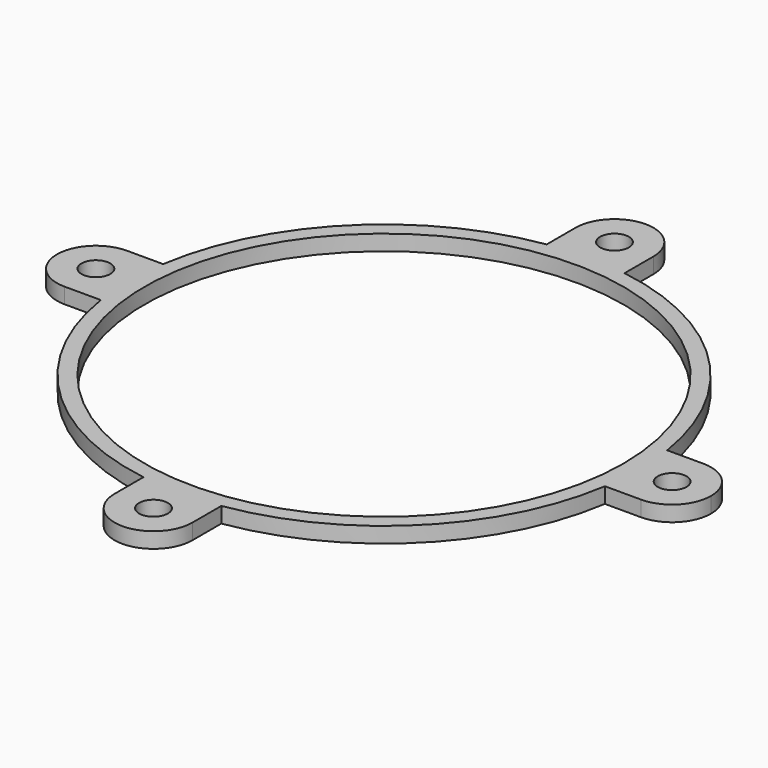
from build123d import *

# Parameters (mm, degrees)
F0_R     = 30.75
F0_R_2   = 1.85
F1_DEPTH = 2


with BuildPart() as f1:
    # F0 (on Top) → F1 (new body)
    with BuildSketch(Plane.XY):
        with BuildLine():
            ThreePointArc((32.65625, 2.476254417), (32.5356397493, 3.7409418742), (32.366070197, 5))
            ThreePointArc((32.366070197, 5), (23.1577470839, 23.1577470839), (5, 32.366070197))
            ThreePointArc((5, 32.366070197), (3.7409418742, 32.5356397493), (2.476254417, 32.65625))
            ThreePointArc((2.476254417, 32.65625), (0, 32), (-2.476254417, 32.65625))
            ThreePointArc((-2.476254417, 32.65625), (-3.7409418742, 32.5356397493), (-5, 32.366070197))
            ThreePointArc((-5, 32.366070197), (-23.1577470839, 23.1577470839), (-32.366070197, 5))
            ThreePointArc((-32.366070197, 5), (-32.5356397493, 3.7409418742), (-32.65625, 2.476254417))
            ThreePointArc((-32.65625, 2.476254417), (-32.1668462677, 1.2808688457), (-32, 0))
            ThreePointArc((-32, 0), (-32.1668462677, -1.2808688457), (-32.65625, -2.476254417))
            ThreePointArc((-32.65625, -2.476254417), (-32.5356397493, -3.7409418742), (-32.366070197, -5))
            ThreePointArc((-32.366070197, -5), (-23.1577470839, -23.1577470839), (-5, -32.366070197))
            ThreePointArc((-5, -32.366070197), (-3.7409418742, -32.5356397493), (-2.476254417, -32.65625))
            ThreePointArc((-2.476254417, -32.65625), (0, -32), (2.476254417, -32.65625))
            ThreePointArc((2.476254417, -32.65625), (3.7409418742, -32.5356397493), (5, -32.366070197))
            ThreePointArc((5, -32.366070197), (23.1577470839, -23.1577470839), (32.366070197, -5))
            ThreePointArc((32.366070197, -5), (32.5356397493, -3.7409418742), (32.65625, -2.476254417))
            ThreePointArc((32.65625, -2.476254417), (32, 0), (32.65625, 2.476254417))
        make_face()
        Circle(F0_R, mode=Mode.SUBTRACT)
        with BuildLine():
            Line((37, 5), (32.366070197, 5))
            ThreePointArc((32.366070197, 5), (32.5356397493, 3.7409418742), (32.65625, 2.476254417))
            ThreePointArc((32.65625, 2.476254417), (34.488155268, 4.3232668253), (37, 5))
        make_face()
        with BuildLine():
            ThreePointArc((2.476254417, 32.65625), (3.7409418742, 32.5356397493), (5, 32.366070197))
            Line((5, 32.366070197), (5, 37))
            ThreePointArc((5, 37), (4.3232668253, 34.488155268), (2.476254417, 32.65625))
        make_face()
        with BuildLine():
            ThreePointArc((37, 5), (34.488155268, 4.3232668253), (32.65625, 2.476254417))
            ThreePointArc((32.65625, 2.476254417), (32.7265541075, 1.2390142251), (32.75, 0))
            ThreePointArc((32.75, 0), (32.7265541075, -1.2390142251), (32.65625, -2.476254417))
            ThreePointArc((32.65625, -2.476254417), (34.488155268, -4.3232668253), (37, -5))
            ThreePointArc((37, -5), (40.5355339059, -3.5355339059), (42, 0))
            ThreePointArc((42, 0), (40.5355339059, 3.5355339059), (37, 5))
        make_face()
        with Locations((37, 0)):
            Circle(F0_R_2, mode=Mode.SUBTRACT)
        with BuildLine():
            ThreePointArc((-2.476254417, 32.65625), (0, 32.75), (2.476254417, 32.65625))
            ThreePointArc((2.476254417, 32.65625), (4.3232668253, 34.488155268), (5, 37))
            ThreePointArc((5, 37), (0, 42), (-5, 37))
            ThreePointArc((-5, 37), (-4.3232668253, 34.488155268), (-2.476254417, 32.65625))
        make_face()
        with Locations((0, 37)):
            Circle(F0_R_2, mode=Mode.SUBTRACT)
        with BuildLine():
            ThreePointArc((37, -5), (34.488155268, -4.3232668253), (32.65625, -2.476254417))
            ThreePointArc((32.65625, -2.476254417), (32.5356397493, -3.7409418742), (32.366070197, -5))
            Line((32.366070197, -5), (37, -5))
        make_face()
        with BuildLine():
            ThreePointArc((-5, 32.366070197), (-3.7409418742, 32.5356397493), (-2.476254417, 32.65625))
            ThreePointArc((-2.476254417, 32.65625), (-4.3232668253, 34.488155268), (-5, 37))
            Line((-5, 37), (-5, 32.366070197))
        make_face()
        with BuildLine():
            Line((5, -37), (5, -32.366070197))
            ThreePointArc((5, -32.366070197), (3.7409418742, -32.5356397493), (2.476254417, -32.65625))
            ThreePointArc((2.476254417, -32.65625), (4.3232668253, -34.488155268), (5, -37))
        make_face()
        with BuildLine():
            ThreePointArc((-32.65625, 2.476254417), (-32.5356397493, 3.7409418742), (-32.366070197, 5))
            Line((-32.366070197, 5), (-37, 5))
            ThreePointArc((-37, 5), (-34.488155268, 4.3232668253), (-32.65625, 2.476254417))
        make_face()
        with BuildLine():
            ThreePointArc((5, -37), (4.3232668253, -34.488155268), (2.476254417, -32.65625))
            ThreePointArc((2.476254417, -32.65625), (0, -32.75), (-2.476254417, -32.65625))
            ThreePointArc((-2.476254417, -32.65625), (-4.3232668253, -34.488155268), (-5, -37))
            ThreePointArc((-5, -37), (0, -42), (5, -37))
        make_face()
        with Locations((0, -37)):
            Circle(F0_R_2, mode=Mode.SUBTRACT)
        with BuildLine():
            ThreePointArc((-32.65625, -2.476254417), (-32.75, 0), (-32.65625, 2.476254417))
            ThreePointArc((-32.65625, 2.476254417), (-34.488155268, 4.3232668253), (-37, 5))
            ThreePointArc((-37, 5), (-42, 0), (-37, -5))
            ThreePointArc((-37, -5), (-34.488155268, -4.3232668253), (-32.65625, -2.476254417))
        make_face()
        with Locations((-37, 0)):
            Circle(F0_R_2, mode=Mode.SUBTRACT)
        with BuildLine():
            ThreePointArc((-5, -37), (-4.3232668253, -34.488155268), (-2.476254417, -32.65625))
            ThreePointArc((-2.476254417, -32.65625), (-3.7409418742, -32.5356397493), (-5, -32.366070197))
            Line((-5, -32.366070197), (-5, -37))
        make_face()
        with BuildLine():
            ThreePointArc((-32.366070197, -5), (-32.5356397493, -3.7409418742), (-32.65625, -2.476254417))
            ThreePointArc((-32.65625, -2.476254417), (-34.488155268, -4.3232668253), (-37, -5))
            Line((-37, -5), (-32.366070197, -5))
        make_face()
        with BuildLine():
            ThreePointArc((-2.476254417, 32.65625), (0, 32), (2.476254417, 32.65625))
            ThreePointArc((2.476254417, 32.65625), (0, 32.75), (-2.476254417, 32.65625))
        make_face()
        with BuildLine():
            ThreePointArc((-32, 0), (-32.1668462677, 1.2808688457), (-32.65625, 2.476254417))
            ThreePointArc((-32.65625, 2.476254417), (-32.75, 0), (-32.65625, -2.476254417))
            ThreePointArc((-32.65625, -2.476254417), (-32.1668462677, -1.2808688457), (-32, 0))
        make_face()
        with BuildLine():
            ThreePointArc((-2.476254417, -32.65625), (0, -32.75), (2.476254417, -32.65625))
            ThreePointArc((2.476254417, -32.65625), (0, -32), (-2.476254417, -32.65625))
        make_face()
        with BuildLine():
            ThreePointArc((32.75, 0), (32.7265541075, 1.2390142251), (32.65625, 2.476254417))
            ThreePointArc((32.65625, 2.476254417), (32, 0), (32.65625, -2.476254417))
            ThreePointArc((32.65625, -2.476254417), (32.7265541075, -1.2390142251), (32.75, 0))
        make_face()
    extrude(amount=F1_DEPTH)


solid = f1.part
